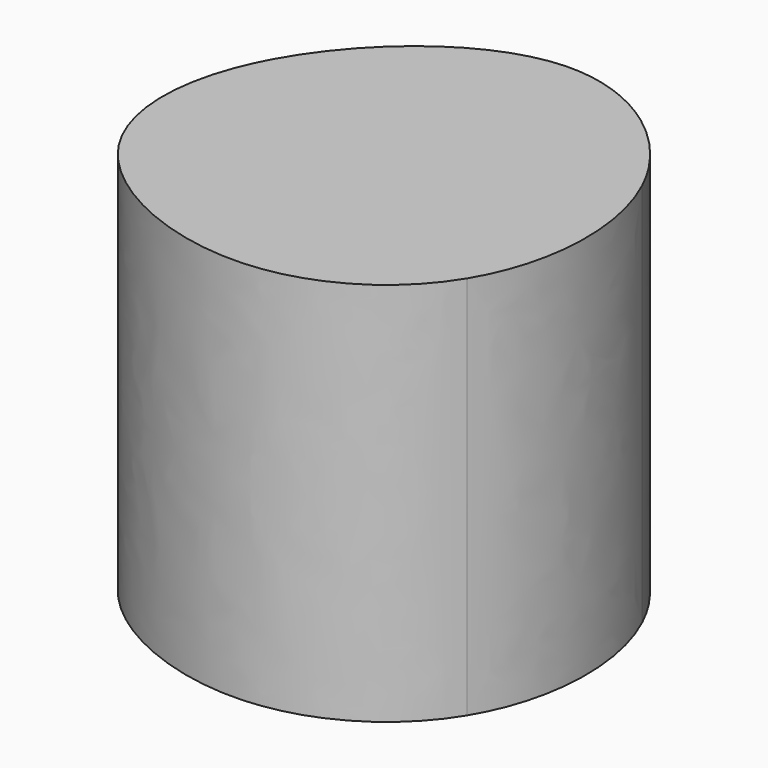
from build123d import *

# Parameters (mm, degrees)
F1_DEPTH = 63.246


with BuildPart() as f1:
    # F0 (on Top) → F1 (new body)
    with BuildSketch(Plane.XY):
        with BuildLine():
            add(Edge.make_bspline(
                [(-31.0366246849, 14.3090933561), (-24.7731259502, 25.9426378564), (-0.280422184, 46.0054280911), (22.7944260513, 27.8825659331), (28.0135758221, 16.7275313288)],
                knots=[0, 0, 0, 0, 0.1770505982, 0.3448909825, 0.3448909825, 0.3448909825, 0.3448909825], degree=3))
            add(Edge.make_bspline(
                [(-31.0366246849, 14.3090933561), (-20.4916338951, 6.8899530992), (-9.9466431052, -0.5291871577), (0, 0)],
                knots=[0, 0, 0, 0, 0.5057960066, 0.5057960066, 0.5057960066, 0.5057960066], degree=3))
            add(Edge.make_bspline(
                [(0, 0), (9.7186823915, 0.5170590577), (18.8661291068, 8.6222951933), (28.0135758221, 16.7275313288)],
                knots=[0.5057960066, 0.5057960066, 0.5057960066, 0.5057960066, 1, 1, 1, 1], degree=3))
        make_face()
        with BuildLine():
            add(Edge.make_bspline(
                [(0, 0), (-10.4798997442, -5.5086649954), (-20.9597994884, -11.0173299909), (-31.4396992326, -16.5259949863)],
                knots=[0, 0, 0, 0, 35.5184909325, 35.5184909325, 35.5184909325, 35.5184909325], degree=3))
            add(Edge.make_bspline(
                [(26.6028232872, -17.5336766988), (21.1054335645, -26.5820967327), (0.4125595486, -38.2143940271), (-25.2908871993, -25.9587047594), (-31.4396992326, -16.5259949863)],
                knots=[0.5127661723, 0.5127661723, 0.5127661723, 0.5127661723, 0.6708319375, 0.8408002432, 0.8408002432, 0.8408002432, 0.8408002432], degree=3))
            add(Edge.make_bspline(
                [(0, 0), (8.8676077624, -5.8445588996), (17.7352155248, -11.6891177992), (26.6028232872, -17.5336766988)],
                knots=[0, 0, 0, 0, 31.8612621443, 31.8612621443, 31.8612621443, 31.8612621443], degree=3))
        make_face()
        with BuildLine():
            add(Edge.make_bspline(
                [(28.0135758221, 16.7275313288), (33.2338078983, 5.5701834829), (32.4413762566, -7.9237195516), (26.6028232872, -17.5336766988)],
                knots=[0.3448909825, 0.3448909825, 0.3448909825, 0.3448909825, 0.5127661723, 0.5127661723, 0.5127661723, 0.5127661723], degree=3))
            add(Edge.make_bspline(
                [(0, 0), (9.7186823915, 0.5170590577), (18.8661291068, 8.6222951933), (28.0135758221, 16.7275313288)],
                knots=[0.5057960066, 0.5057960066, 0.5057960066, 0.5057960066, 1, 1, 1, 1], degree=3))
            add(Edge.make_bspline(
                [(0, 0), (8.8676077624, -5.8445588996), (17.7352155248, -11.6891177992), (26.6028232872, -17.5336766988)],
                knots=[0, 0, 0, 0, 31.8612621443, 31.8612621443, 31.8612621443, 31.8612621443], degree=3))
        make_face()
        with BuildLine():
            add(Edge.make_bspline(
                [(-31.0366246849, 14.3090933561), (-20.4916338951, 6.8899530992), (-9.9466431052, -0.5291871577), (0, 0)],
                knots=[0, 0, 0, 0, 0.5057960066, 0.5057960066, 0.5057960066, 0.5057960066], degree=3))
            add(Edge.make_bspline(
                [(-31.4396992326, -16.5259949863), (-37.1989457975, -7.6909060187), (-36.6686162511, 3.8484822368), (-31.0366246849, 14.3090933561)],
                knots=[0.8408002432, 0.8408002432, 0.8408002432, 0.8408002432, 1, 1, 1, 1], degree=3))
            add(Edge.make_bspline(
                [(0, 0), (-10.4798997442, -5.5086649954), (-20.9597994884, -11.0173299909), (-31.4396992326, -16.5259949863)],
                knots=[0, 0, 0, 0, 35.5184909325, 35.5184909325, 35.5184909325, 35.5184909325], degree=3))
        make_face()
    extrude(amount=F1_DEPTH)


solid = f1.part
